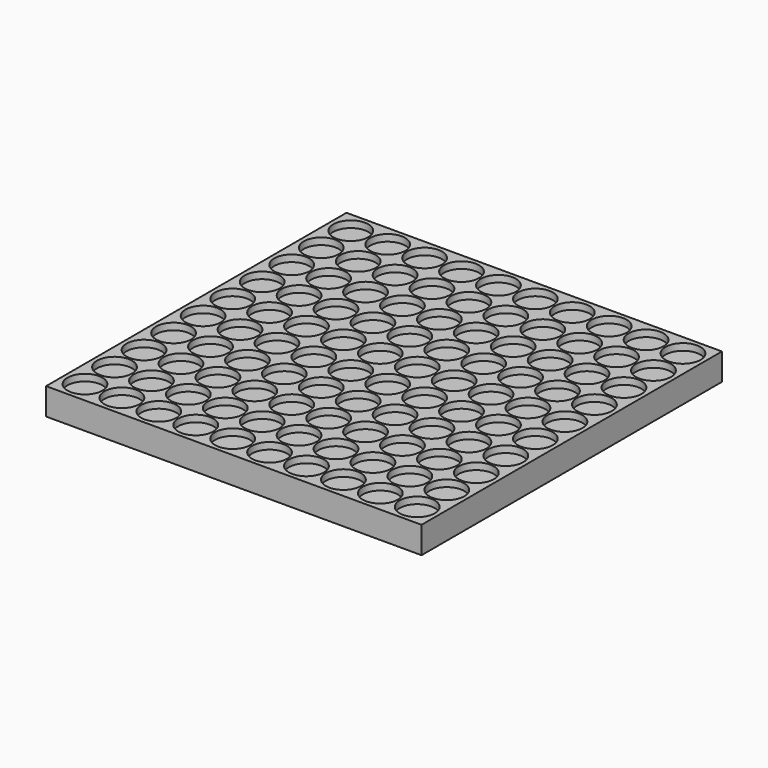
from build123d import *

# Parameters (mm, degrees)
F0_W     = 178
F0_H     = 178
F0_R     = 8.3
F1_DEPTH = 3.2
F2_W     = 178
F2_H     = 178
F3_DEPTH = 9.5


with BuildPart() as f1:
    # F0 (on Top) → F1 (new body)
    with BuildSketch(Plane.XY):
        with Locations((78.75, 78.75)):
            Rectangle(F0_W, F0_H)
        Circle(F0_R, mode=Mode.SUBTRACT)
        with Locations((17.5, 0)):
            Circle(F0_R, mode=Mode.SUBTRACT)
        with Locations((0, 17.5)):
            Circle(F0_R, mode=Mode.SUBTRACT)
        with Locations((17.5, 17.5)):
            Circle(F0_R, mode=Mode.SUBTRACT)
        with Locations((35, 0)):
            Circle(F0_R, mode=Mode.SUBTRACT)
        with Locations((52.5, 0)):
            Circle(F0_R, mode=Mode.SUBTRACT)
        with Locations((70, 0)):
            Circle(F0_R, mode=Mode.SUBTRACT)
        with Locations((35, 17.5)):
            Circle(F0_R, mode=Mode.SUBTRACT)
        with Locations((52.5, 17.5)):
            Circle(F0_R, mode=Mode.SUBTRACT)
        with Locations((70, 17.5)):
            Circle(F0_R, mode=Mode.SUBTRACT)
        with Locations((0, 35)):
            Circle(F0_R, mode=Mode.SUBTRACT)
        with Locations((0, 52.5)):
            Circle(F0_R, mode=Mode.SUBTRACT)
        with Locations((17.5, 35)):
            Circle(F0_R, mode=Mode.SUBTRACT)
        with Locations((17.5, 52.5)):
            Circle(F0_R, mode=Mode.SUBTRACT)
        with Locations((0, 70)):
            Circle(F0_R, mode=Mode.SUBTRACT)
        with Locations((17.5, 70)):
            Circle(F0_R, mode=Mode.SUBTRACT)
        with Locations((35, 35)):
            Circle(F0_R, mode=Mode.SUBTRACT)
        with Locations((52.5, 35)):
            Circle(F0_R, mode=Mode.SUBTRACT)
        with Locations((35, 52.5)):
            Circle(F0_R, mode=Mode.SUBTRACT)
        with Locations((52.5, 52.5)):
            Circle(F0_R, mode=Mode.SUBTRACT)
        with Locations((70, 35)):
            Circle(F0_R, mode=Mode.SUBTRACT)
        with Locations((70, 52.5)):
            Circle(F0_R, mode=Mode.SUBTRACT)
        with Locations((35, 70)):
            Circle(F0_R, mode=Mode.SUBTRACT)
        with Locations((52.5, 70)):
            Circle(F0_R, mode=Mode.SUBTRACT)
        with Locations((70, 70)):
            Circle(F0_R, mode=Mode.SUBTRACT)
        with Locations((87.5, 0)):
            Circle(F0_R, mode=Mode.SUBTRACT)
        with Locations((105, 0)):
            Circle(F0_R, mode=Mode.SUBTRACT)
        with Locations((122.5, 0)):
            Circle(F0_R, mode=Mode.SUBTRACT)
        with Locations((87.5, 17.5)):
            Circle(F0_R, mode=Mode.SUBTRACT)
        with Locations((105, 17.5)):
            Circle(F0_R, mode=Mode.SUBTRACT)
        with Locations((122.5, 17.5)):
            Circle(F0_R, mode=Mode.SUBTRACT)
        with Locations((140, 0)):
            Circle(F0_R, mode=Mode.SUBTRACT)
        with Locations((157.5, 0)):
            Circle(F0_R, mode=Mode.SUBTRACT)
        with Locations((140, 17.5)):
            Circle(F0_R, mode=Mode.SUBTRACT)
        with Locations((157.5, 17.5)):
            Circle(F0_R, mode=Mode.SUBTRACT)
        with Locations((87.5, 35)):
            Circle(F0_R, mode=Mode.SUBTRACT)
        with Locations((87.5, 52.5)):
            Circle(F0_R, mode=Mode.SUBTRACT)
        with Locations((105, 35)):
            Circle(F0_R, mode=Mode.SUBTRACT)
        with Locations((122.5, 35)):
            Circle(F0_R, mode=Mode.SUBTRACT)
        with Locations((105, 52.5)):
            Circle(F0_R, mode=Mode.SUBTRACT)
        with Locations((122.5, 52.5)):
            Circle(F0_R, mode=Mode.SUBTRACT)
        with Locations((87.5, 70)):
            Circle(F0_R, mode=Mode.SUBTRACT)
        with Locations((105, 70)):
            Circle(F0_R, mode=Mode.SUBTRACT)
        with Locations((122.5, 70)):
            Circle(F0_R, mode=Mode.SUBTRACT)
        with Locations((140, 35)):
            Circle(F0_R, mode=Mode.SUBTRACT)
        with Locations((140, 52.5)):
            Circle(F0_R, mode=Mode.SUBTRACT)
        with Locations((157.5, 35)):
            Circle(F0_R, mode=Mode.SUBTRACT)
        with Locations((157.5, 52.5)):
            Circle(F0_R, mode=Mode.SUBTRACT)
        with Locations((140, 70)):
            Circle(F0_R, mode=Mode.SUBTRACT)
        with Locations((157.5, 70)):
            Circle(F0_R, mode=Mode.SUBTRACT)
        with Locations((0, 87.5)):
            Circle(F0_R, mode=Mode.SUBTRACT)
        with Locations((17.5, 87.5)):
            Circle(F0_R, mode=Mode.SUBTRACT)
        with Locations((0, 105)):
            Circle(F0_R, mode=Mode.SUBTRACT)
        with Locations((0, 122.5)):
            Circle(F0_R, mode=Mode.SUBTRACT)
        with Locations((17.5, 105)):
            Circle(F0_R, mode=Mode.SUBTRACT)
        with Locations((17.5, 122.5)):
            Circle(F0_R, mode=Mode.SUBTRACT)
        with Locations((35, 87.5)):
            Circle(F0_R, mode=Mode.SUBTRACT)
        with Locations((52.5, 87.5)):
            Circle(F0_R, mode=Mode.SUBTRACT)
        with Locations((70, 87.5)):
            Circle(F0_R, mode=Mode.SUBTRACT)
        with Locations((35, 105)):
            Circle(F0_R, mode=Mode.SUBTRACT)
        with Locations((52.5, 105)):
            Circle(F0_R, mode=Mode.SUBTRACT)
        with Locations((35, 122.5)):
            Circle(F0_R, mode=Mode.SUBTRACT)
        with Locations((52.5, 122.5)):
            Circle(F0_R, mode=Mode.SUBTRACT)
        with Locations((70, 105)):
            Circle(F0_R, mode=Mode.SUBTRACT)
        with Locations((70, 122.5)):
            Circle(F0_R, mode=Mode.SUBTRACT)
        with Locations((0, 140)):
            Circle(F0_R, mode=Mode.SUBTRACT)
        with Locations((17.5, 140)):
            Circle(F0_R, mode=Mode.SUBTRACT)
        with Locations((0, 157.5)):
            Circle(F0_R, mode=Mode.SUBTRACT)
        with Locations((17.5, 157.5)):
            Circle(F0_R, mode=Mode.SUBTRACT)
        with Locations((35, 140)):
            Circle(F0_R, mode=Mode.SUBTRACT)
        with Locations((52.5, 140)):
            Circle(F0_R, mode=Mode.SUBTRACT)
        with Locations((70, 140)):
            Circle(F0_R, mode=Mode.SUBTRACT)
        with Locations((35, 157.5)):
            Circle(F0_R, mode=Mode.SUBTRACT)
        with Locations((52.5, 157.5)):
            Circle(F0_R, mode=Mode.SUBTRACT)
        with Locations((70, 157.5)):
            Circle(F0_R, mode=Mode.SUBTRACT)
        with Locations((87.5, 87.5)):
            Circle(F0_R, mode=Mode.SUBTRACT)
        with Locations((105, 87.5)):
            Circle(F0_R, mode=Mode.SUBTRACT)
        with Locations((122.5, 87.5)):
            Circle(F0_R, mode=Mode.SUBTRACT)
        with Locations((87.5, 105)):
            Circle(F0_R, mode=Mode.SUBTRACT)
        with Locations((87.5, 122.5)):
            Circle(F0_R, mode=Mode.SUBTRACT)
        with Locations((105, 105)):
            Circle(F0_R, mode=Mode.SUBTRACT)
        with Locations((122.5, 105)):
            Circle(F0_R, mode=Mode.SUBTRACT)
        with Locations((105, 122.5)):
            Circle(F0_R, mode=Mode.SUBTRACT)
        with Locations((122.5, 122.5)):
            Circle(F0_R, mode=Mode.SUBTRACT)
        with Locations((140, 87.5)):
            Circle(F0_R, mode=Mode.SUBTRACT)
        with Locations((157.5, 87.5)):
            Circle(F0_R, mode=Mode.SUBTRACT)
        with Locations((140, 105)):
            Circle(F0_R, mode=Mode.SUBTRACT)
        with Locations((140, 122.5)):
            Circle(F0_R, mode=Mode.SUBTRACT)
        with Locations((157.5, 105)):
            Circle(F0_R, mode=Mode.SUBTRACT)
        with Locations((157.5, 122.5)):
            Circle(F0_R, mode=Mode.SUBTRACT)
        with Locations((87.5, 140)):
            Circle(F0_R, mode=Mode.SUBTRACT)
        with Locations((105, 140)):
            Circle(F0_R, mode=Mode.SUBTRACT)
        with Locations((122.5, 140)):
            Circle(F0_R, mode=Mode.SUBTRACT)
        with Locations((87.5, 157.5)):
            Circle(F0_R, mode=Mode.SUBTRACT)
        with Locations((105, 157.5)):
            Circle(F0_R, mode=Mode.SUBTRACT)
        with Locations((122.5, 157.5)):
            Circle(F0_R, mode=Mode.SUBTRACT)
        with Locations((140, 140)):
            Circle(F0_R, mode=Mode.SUBTRACT)
        with Locations((157.5, 140)):
            Circle(F0_R, mode=Mode.SUBTRACT)
        with Locations((140, 157.5)):
            Circle(F0_R, mode=Mode.SUBTRACT)
        with Locations((157.5, 157.5)):
            Circle(F0_R, mode=Mode.SUBTRACT)
    extrude(amount=F1_DEPTH)

    # F2 (on Top) → F3 (join)
    with BuildSketch(Plane.XY):
        with Locations((78.75, 78.75)):
            Rectangle(F2_W, F2_H)
    extrude(amount=-F3_DEPTH)


solid = f1.part
